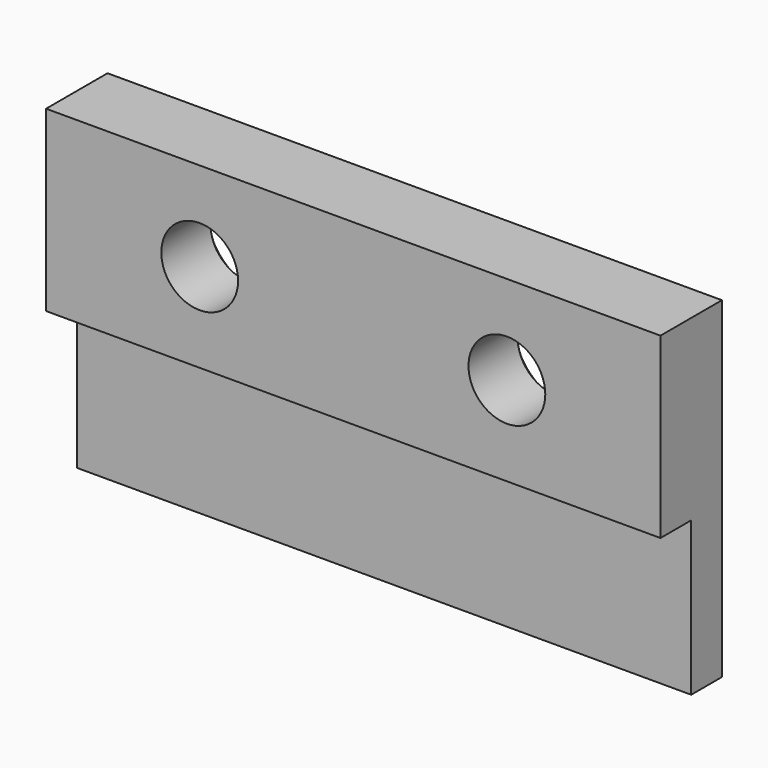
from build123d import *

# Parameters (mm, degrees)
F0_W     = 50.8
F0_H     = 14.732
F0_R     = 3.175
F1_DEPTH = 3.175
F0_H_2   = 12.7
F2_DEPTH = 3.175
F3_SIZE2 = 1.27
F3_SIZE  = 1.27
F4_SIZE2 = 1.27
F4_SIZE  = 1.27


with BuildPart() as f1:
    # F0 (on Front) → F1 (new body, symmetric)
    with BuildSketch(Plane.XZ):
        Rectangle(F0_W, F0_H)
        with Locations((-12.7, 0)):
            Circle(F0_R, mode=Mode.SUBTRACT)
        with Locations((12.7, 0)):
            Circle(F0_R, mode=Mode.SUBTRACT)
    extrude(amount=F1_DEPTH, both=True)

    # F0 (on Front) → F2 (join)
    with BuildSketch(Plane.XZ):
        with Locations((0, -13.716)):
            Rectangle(F0_W, F0_H_2)
    extrude(amount=-F2_DEPTH)

    # F3
    f3_edges = [f1.edges().sort_by_distance(p)[0] for p in [
        (9.525, 3.175, 0),
    ]]
    chamfer(f3_edges, length=F3_SIZE, length2=F3_SIZE2)

    # F4
    f4_edges = [f1.edges().sort_by_distance(p)[0] for p in [
        (-15.875, 3.175, 0),
    ]]
    chamfer(f4_edges, length=F4_SIZE, length2=F4_SIZE2)


solid = f1.part
